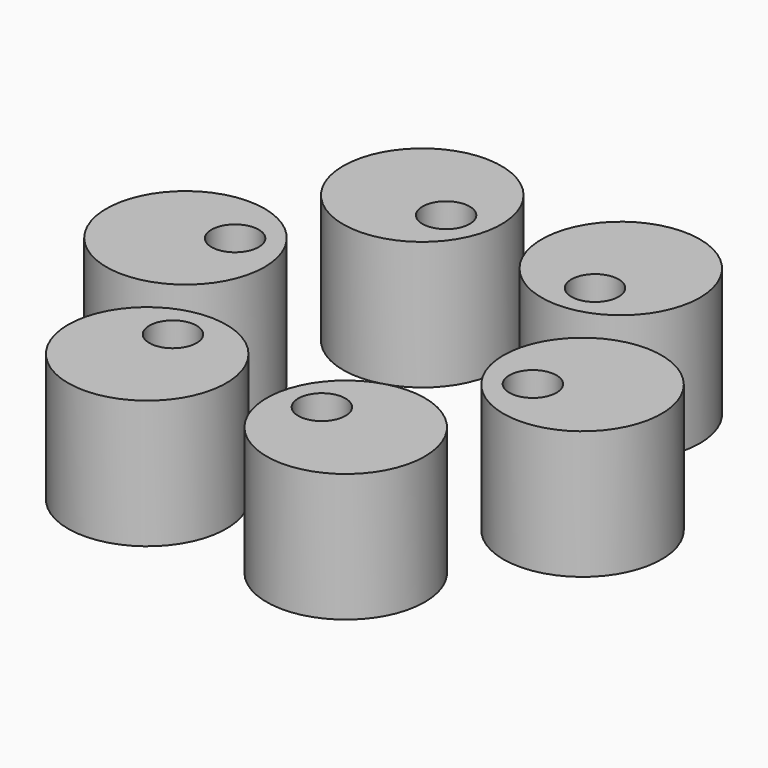
from build123d import *

# Parameters (mm, degrees)
F0_R     = 39.853265
F0_R_2   = 11.898274
F1_DEPTH = 64.59289
F3_COUNT = 6
F3_ANGLE = 300


with BuildPart() as f1:
    # F0 (on Top) → F1 (new body)
    with BuildSketch(Plane.XY):
        Circle(F0_R)
        with Locations((15.506329, 11.851266)):
            Circle(F0_R_2, mode=Mode.SUBTRACT)
    extrude(amount=F1_DEPTH)


with BuildPart() as f3_1:
    # F3: instance of F1
    add(f1.part.rotate(Axis((100, 0, 37.5), (0, 0, -1)), 1 * F3_ANGLE / (F3_COUNT - 1)))


with BuildPart() as f3_2:
    # F3: instance of F1
    add(f1.part.rotate(Axis((100, 0, 37.5), (0, 0, -1)), 2 * F3_ANGLE / (F3_COUNT - 1)))


with BuildPart() as f3_3:
    # F3: instance of F1
    add(f1.part.rotate(Axis((100, 0, 37.5), (0, 0, -1)), 3 * F3_ANGLE / (F3_COUNT - 1)))


with BuildPart() as f3_4:
    # F3: instance of F1
    add(f1.part.rotate(Axis((100, 0, 37.5), (0, 0, -1)), 4 * F3_ANGLE / (F3_COUNT - 1)))


with BuildPart() as f3_5:
    # F3: instance of F1
    add(f1.part.rotate(Axis((100, 0, 37.5), (0, 0, -1)), 5 * F3_ANGLE / (F3_COUNT - 1)))


solid = Compound([f1.part, f3_1.part, f3_2.part, f3_3.part, f3_4.part, f3_5.part])
